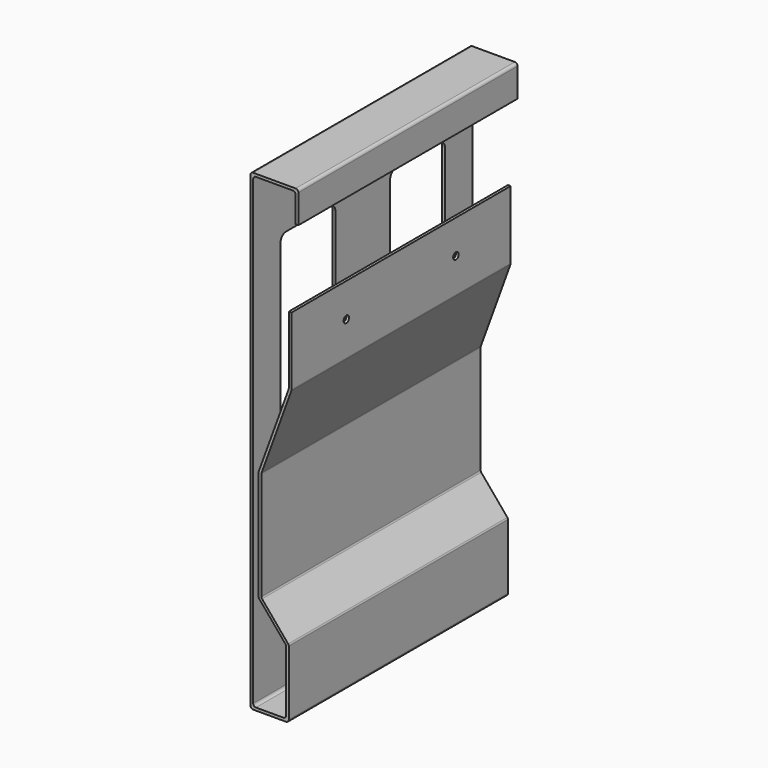
from build123d import *

# Parameters (mm, degrees)
F1_DEPTH = 200
F2_R     = 2
F4_DEPTH = 2
F6_D     = 5
F6_DEPTH = 2


with BuildPart() as f1:
    # F0 (on Front) → F1 (new body)
    with BuildSketch(Plane.XZ):
        Polygon((35, 0), (0, 0), (0, -345), (28, -345), (28, -295), (8, -271.164928), (8, -191.164928), (30, -130.720425), (30, -80.720425), (28, -80.720425), (28, -130.367771), (6, -190.812274), (6, -271.892869), (26, -295.72794), (26, -343), (2, -343), (2, -2), (33, -2), (33, -23), (35, -23), align=None)
    extrude(amount=F1_DEPTH)

    # F2
    f2_edges = [f1.edges().sort_by_distance(p)[0] for p in [
        (0, -100, 0),
        (35, -100, 0),
        (33, -100, -2),
        (2, -100, -2),
        (0, -100, -345),
        (2, -100, -343),
        (28, -100, -345),
        (26, -100, -343),
        (26, -100, -295.72794),
        (28, -100, -295),
        (8, -100, -271.164928),
        (6, -100, -271.892869),
        (6, -100, -190.812274),
        (8, -100, -191.164928),
        (30, -100, -130.720425),
        (28, -100, -130.367771),
    ]]
    fillet(f2_edges, radius=F2_R)

    # F3 (on face) → F4 (cut)
    with BuildSketch(Plane(origin=(0, 0, 0), x_dir=(0, -1, 0), z_dir=(-1, 0, 0))):
        with BuildLine():
            Line((70, -50), (30, -50))
            ThreePointArc((30, -50), (26.464466, -51.464466), (25, -55))
            Line((25, -55), (25, -290))
            ThreePointArc((25, -290), (26.464466, -293.535534), (30, -295))
            Line((30, -295), (70, -295))
            ThreePointArc((70, -295), (73.535534, -293.535534), (75, -290))
            Line((75, -290), (75, -55))
            ThreePointArc((75, -55), (73.535534, -51.464466), (70, -50))
        make_face()
        with BuildLine():
            ThreePointArc((125, -290), (126.464466, -293.535534), (130, -295))
            Line((130, -295), (170, -295))
            ThreePointArc((170, -295), (173.535534, -293.535534), (175, -290))
            Line((175, -290), (175, -55))
            ThreePointArc((175, -55), (173.535534, -51.464466), (170, -50))
            Line((170, -50), (130, -50))
            ThreePointArc((130, -50), (126.464466, -51.464466), (125, -55))
            Line((125, -55), (125, -290))
        make_face()
    extrude(amount=-F4_DEPTH, mode=Mode.SUBTRACT)

    # F6
    with Locations(Plane(origin=(28, 0, 0), x_dir=(0, -1, 0), z_dir=(-1, 0, 0))):
        with Locations((50, -105.367771), (150, -105.367771)):
            Hole(F6_D / 2, depth=F6_DEPTH)


solid = f1.part
